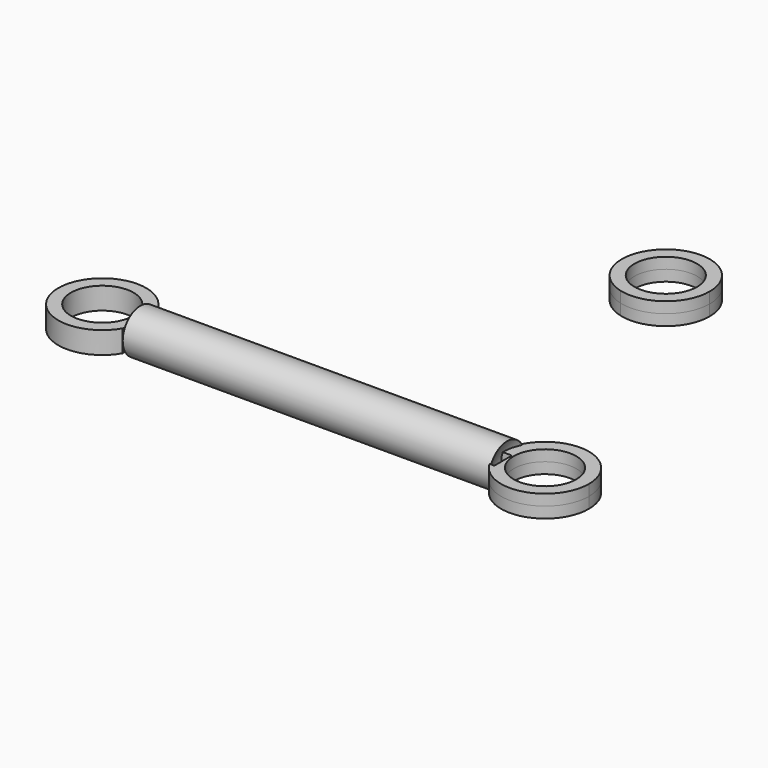
from build123d import *

# Parameters (mm, degrees)
F0_R     = 10.7
F1_DEPTH = 3.75


with BuildPart() as f1:
    # F0 (on Top) → F1 (new body, symmetric)
    with BuildSketch(Plane.XY):
        with BuildLine():
            Line((12.9903810568, 0), (15, 0))
            ThreePointArc((15, 0), (11.9003001044, 9.1314214351), (3.8822856765, 14.4888873943))
            ThreePointArc((3.8822856765, 14.4888873943), (-13.8581929877, -5.7402514855), (12.9903810568, -7.5))
            Line((12.9903810568, -7.5), (12.9903810568, 0))
        make_face()
        Circle(F0_R, mode=Mode.SUBTRACT)
    extrude(amount=F1_DEPTH, both=True)


with BuildPart() as f1b:
    # F0 (on Top) → F1, piece 2 (new body, symmetric)
    with BuildSketch(Plane.XY):
        with BuildLine():
            ThreePointArc((138.3096189432, 7.5), (136.8111126057, 3.8822856765), (136.3, 0))
            Line((136.3, 0), (139.9895697832, 0))
            Line((139.9895697832, 0), (139.9895697832, -7.5))
            Line((139.9895697832, -7.5), (138.3096189432, -7.5))
            ThreePointArc((138.3096189432, -7.5), (155.1822856765, -14.4888873943), (166.3, 0))
            ThreePointArc((166.3, 0), (155.1822856765, 14.4888873943), (138.3096189432, 7.5))
        make_face()
        with Locations((151.3, 0)):
            Circle(F0_R, mode=Mode.SUBTRACT)
    extrude(amount=F1_DEPTH, both=True)


with BuildPart() as f1c:
    # F0 (on Top) → F1, piece 3 (new body, symmetric)
    with BuildSketch(Plane.XY):
        with BuildLine():
            ThreePointArc((121.9852559935, 106.9852559935), (105.0273631102, 121.8569289141), (92.4963685992, 103.102970317))
            ThreePointArc((92.4963685992, 103.102970317), (96.3786542757, 96.3786542757), (103.102970317, 92.4963685992))
            ThreePointArc((103.102970317, 92.4963685992), (116.1166774287, 95.0849558892), (121.9852559935, 106.9852559935))
        make_face()
        with Locations((106.9852559935, 106.9852559935)):
            Circle(F0_R, mode=Mode.SUBTRACT)
    extrude(amount=F1_DEPTH, both=True)


with BuildPart() as f2:
    # F0 (on Top) → F2 (revolve)
    with BuildSketch(Plane.XY):
        with BuildLine():
            Line((136.3, 0), (15, 0))
            ThreePointArc((15, 0), (14.4888873943, -3.8822856765), (12.9903810568, -7.5))
            Line((12.9903810568, -7.5), (138.3096189432, -7.5))
            ThreePointArc((138.3096189432, -7.5), (136.8111126057, -3.8822856765), (136.3, 0))
        make_face()
    revolve(axis=Axis((76.48997542, 0, 0), (1, 0, 0)))


solid = Compound([f1.part, f1b.part, f1c.part, f2.part])
